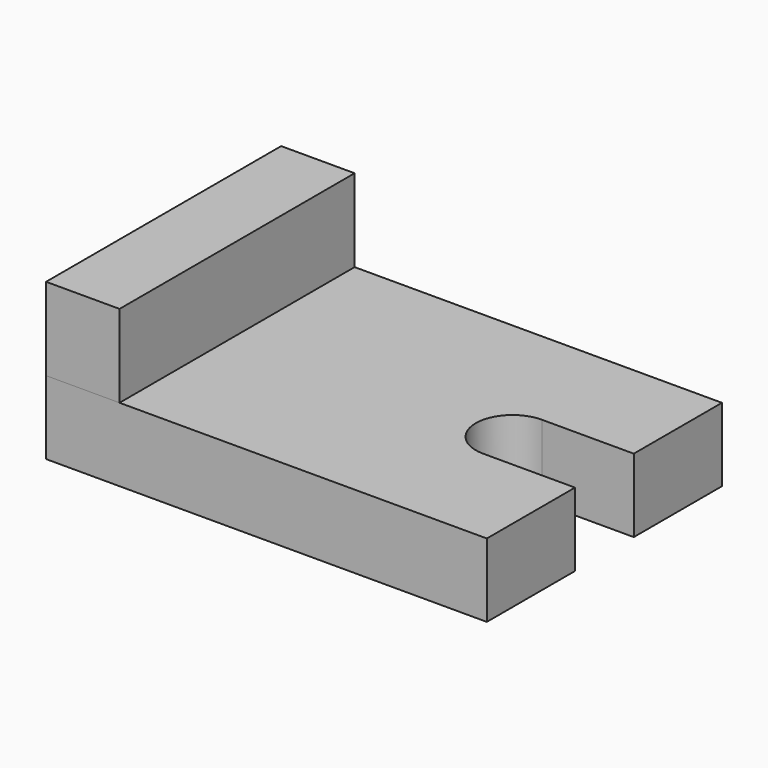
from build123d import *

# Parameters (mm, degrees)
F0_W     = 2438.4
F0_H     = 1625.6
F1_DEPTH = 406.4
F3_DEPTH = 406.4
F4_W     = 406.4
F4_H     = 457.2
F5_DEPTH = 1625.6


with BuildPart() as f1:
    # F0 (on Top) → F1 (new body)
    with BuildSketch(Plane.XY):
        with Locations((1158.464234, 812.8)):
            Rectangle(F0_W, F0_H)
    extrude(amount=F1_DEPTH)

    # F2 (on face) → F3 (cut)
    with BuildSketch(Plane(origin=(0, 0, 0), x_dir=(1, 0, 0), z_dir=(0, 0, -1))):
        with BuildLine():
            Line((2377.664234, -1016), (2377.664234, -609.6))
            Line((2377.664234, -609.6), (1869.664234, -609.6))
            ThreePointArc((1869.664234, -609.6), (1666.464234, -812.8), (1869.664234, -1016))
            Line((1869.664234, -1016), (2377.664234, -1016))
        make_face()
    extrude(amount=-F3_DEPTH, mode=Mode.SUBTRACT)


with BuildPart() as f5:
    # F4 (on face) → F5 (new body)
    with BuildSketch(Plane(origin=(0, 1625.6, 0), x_dir=(-1, 0, 0), z_dir=(0, 1, 0))):
        with Locations((-142.464234, 635)):
            Rectangle(F4_W, F4_H)
    extrude(amount=-F5_DEPTH)


solid = Compound([f1.part, f5.part])
